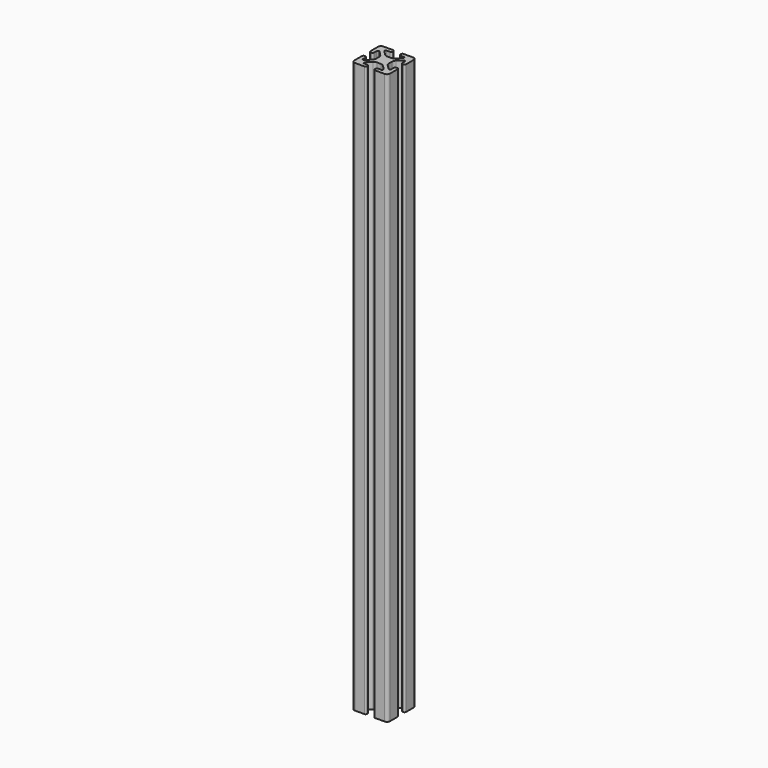
from build123d import *

# Parameters (mm, degrees)
F1_DEPTH = 609.6


with BuildPart() as f1:
    # F0 (on Top) → F1 (new body)
    with BuildSketch(Plane.XY):
        with BuildLine():
            ThreePointArc((0, 34.925), (-2.245064, 33.995064), (-3.175, 31.75))
            Line((-3.175, 31.75), (-3.175, 21.5138))
            ThreePointArc((-3.175, 21.5138), (-2.713752, 20.400248), (-1.6002, 19.939))
            Line((-1.6002, 19.939), (-0.6858, 19.939))
            ThreePointArc((-0.6858, 19.939), (0.427752, 20.400248), (0.889, 21.5138))
            Line((0.889, 21.5138), (0.889, 25.273))
            ThreePointArc((0.889, 25.273), (1.149382, 25.901618), (1.778, 26.162))
            Line((1.778, 26.162), (2.346082, 26.162))
            ThreePointArc((2.346082, 26.162), (2.686288, 26.094329), (2.9747, 25.901618))
            Line((2.9747, 25.901618), (7.61416, 21.262158))
            ThreePointArc((7.61416, 21.262158), (8.643787, 19.721212), (9.005344, 17.903543))
            Line((9.005344, 17.903543), (9.005344, 13.846457))
            ThreePointArc((9.005344, 13.846457), (8.643787, 12.028788), (7.61416, 10.487842))
            Line((7.61416, 10.487842), (2.9747, 5.848382))
            ThreePointArc((2.9747, 5.848382), (2.686288, 5.655671), (2.346082, 5.588))
            Line((2.346082, 5.588), (1.778, 5.588))
            ThreePointArc((1.778, 5.588), (1.149382, 5.848382), (0.889, 6.477))
            Line((0.889, 6.477), (0.889, 10.2362))
            ThreePointArc((0.889, 10.2362), (0.427752, 11.349752), (-0.6858, 11.811))
            Line((-0.6858, 11.811), (-1.6002, 11.811))
            ThreePointArc((-1.6002, 11.811), (-2.713752, 11.349752), (-3.175, 10.2362))
            Line((-3.175, 10.2362), (-3.175, 0))
            ThreePointArc((-3.175, 0), (-2.245064, -2.245064), (0, -3.175))
            Line((0, -3.175), (10.2362, -3.175))
            ThreePointArc((10.2362, -3.175), (11.349752, -2.713752), (11.811, -1.6002))
            Line((11.811, -1.6002), (11.811, -0.6858))
            ThreePointArc((11.811, -0.6858), (11.349752, 0.427752), (10.2362, 0.889))
            Line((10.2362, 0.889), (6.477, 0.889))
            ThreePointArc((6.477, 0.889), (5.848382, 1.149382), (5.588, 1.778))
            Line((5.588, 1.778), (5.588, 2.346082))
            ThreePointArc((5.588, 2.346082), (5.655671, 2.686288), (5.848382, 2.9747))
            Line((5.848382, 2.9747), (10.487842, 7.61416))
            ThreePointArc((10.487842, 7.61416), (12.028788, 8.643787), (13.846457, 9.005344))
            Line((13.846457, 9.005344), (17.903543, 9.005344))
            ThreePointArc((17.903543, 9.005344), (19.721212, 8.643787), (21.262158, 7.61416))
            Line((21.262158, 7.61416), (25.901618, 2.9747))
            ThreePointArc((25.901618, 2.9747), (26.094329, 2.686288), (26.162, 2.346082))
            Line((26.162, 2.346082), (26.162, 1.778))
            ThreePointArc((26.162, 1.778), (25.901618, 1.149382), (25.273, 0.889))
            Line((25.273, 0.889), (21.5138, 0.889))
            ThreePointArc((21.5138, 0.889), (20.400248, 0.427752), (19.939, -0.6858))
            Line((19.939, -0.6858), (19.939, -1.6002))
            ThreePointArc((19.939, -1.6002), (20.400248, -2.713752), (21.5138, -3.175))
            Line((21.5138, -3.175), (31.75, -3.175))
            ThreePointArc((31.75, -3.175), (33.995064, -2.245064), (34.925, 0))
            Line((34.925, 0), (34.925, 10.2362))
            ThreePointArc((34.925, 10.2362), (34.463752, 11.349752), (33.3502, 11.811))
            Line((33.3502, 11.811), (32.4358, 11.811))
            ThreePointArc((32.4358, 11.811), (31.322248, 11.349752), (30.861, 10.2362))
            Line((30.861, 10.2362), (30.861, 6.477))
            ThreePointArc((30.861, 6.477), (30.600618, 5.848382), (29.972, 5.588))
            Line((29.972, 5.588), (29.403918, 5.588))
            ThreePointArc((29.403918, 5.588), (29.063712, 5.655671), (28.7753, 5.848382))
            Line((28.7753, 5.848382), (24.13584, 10.487842))
            ThreePointArc((24.13584, 10.487842), (23.106213, 12.028788), (22.744656, 13.846457))
            Line((22.744656, 13.846457), (22.744656, 17.903543))
            ThreePointArc((22.744656, 17.903543), (23.106213, 19.721212), (24.13584, 21.262158))
            Line((24.13584, 21.262158), (28.7753, 25.901618))
            ThreePointArc((28.7753, 25.901618), (29.063712, 26.094329), (29.403918, 26.162))
            Line((29.403918, 26.162), (29.972, 26.162))
            ThreePointArc((29.972, 26.162), (30.600618, 25.901618), (30.861, 25.273))
            Line((30.861, 25.273), (30.861, 21.5138))
            ThreePointArc((30.861, 21.5138), (31.322248, 20.400248), (32.4358, 19.939))
            Line((32.4358, 19.939), (33.3502, 19.939))
            ThreePointArc((33.3502, 19.939), (34.463752, 20.400248), (34.925, 21.5138))
            Line((34.925, 21.5138), (34.925, 31.75))
            ThreePointArc((34.925, 31.75), (33.995064, 33.995064), (31.75, 34.925))
            Line((31.75, 34.925), (21.5138, 34.925))
            ThreePointArc((21.5138, 34.925), (20.400248, 34.463752), (19.939, 33.3502))
            Line((19.939, 33.3502), (19.939, 32.4358))
            ThreePointArc((19.939, 32.4358), (20.400248, 31.322248), (21.5138, 30.861))
            Line((21.5138, 30.861), (25.273, 30.861))
            ThreePointArc((25.273, 30.861), (25.901618, 30.600618), (26.162, 29.972))
            Line((26.162, 29.972), (26.162, 29.403918))
            ThreePointArc((26.162, 29.403918), (26.094329, 29.063712), (25.901618, 28.7753))
            Line((25.901618, 28.7753), (21.262158, 24.13584))
            ThreePointArc((21.262158, 24.13584), (19.721212, 23.106213), (17.903543, 22.744656))
            Line((17.903543, 22.744656), (13.846457, 22.744656))
            ThreePointArc((13.846457, 22.744656), (12.028788, 23.106213), (10.487842, 24.13584))
            Line((10.487842, 24.13584), (5.848382, 28.7753))
            ThreePointArc((5.848382, 28.7753), (5.655671, 29.063712), (5.588, 29.403918))
            Line((5.588, 29.403918), (5.588, 29.972))
            ThreePointArc((5.588, 29.972), (5.848382, 30.600618), (6.477, 30.861))
            Line((6.477, 30.861), (10.2362, 30.861))
            ThreePointArc((10.2362, 30.861), (11.349752, 31.322248), (11.811, 32.4358))
            Line((11.811, 32.4358), (11.811, 33.3502))
            ThreePointArc((11.811, 33.3502), (11.349752, 34.463752), (10.2362, 34.925))
            Line((10.2362, 34.925), (0, 34.925))
        make_face()
    extrude(amount=-F1_DEPTH)


solid = f1.part
